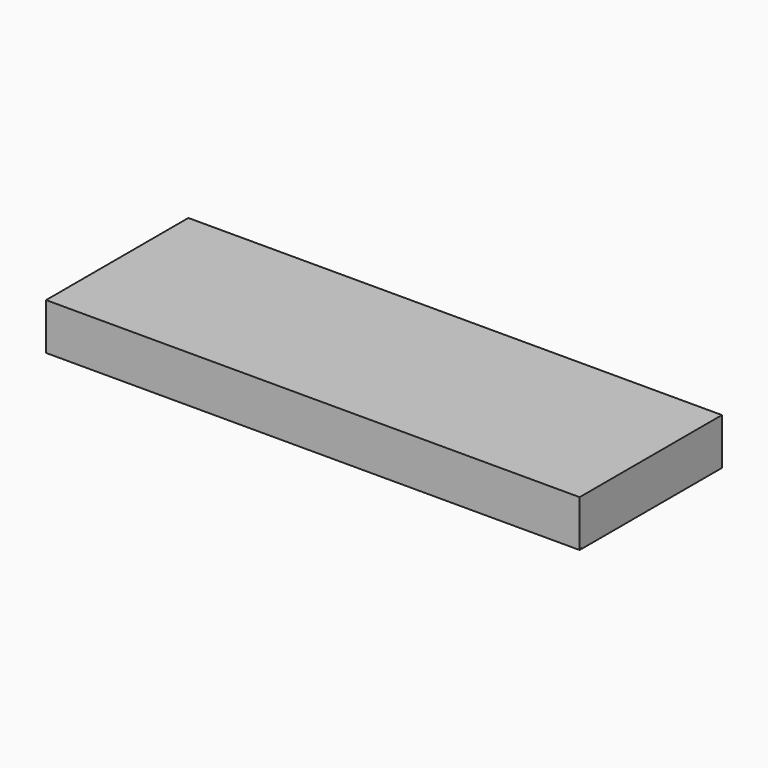
from build123d import *

# Parameters (mm, degrees)
F0_W     = 304.8
F0_H     = 101.6
F0_W_2   = 301.6
F0_H_2   = 98.4
F1_DEPTH = 25
F2_W     = 304.8
F2_H     = 101.6
F3_DEPTH = 1.6
F4_W     = 0.644748
F4_H     = 0.498444
F5_DEPTH = 303.2
F6_W     = 0.51682
F6_H     = 0.5
F7_DEPTH = 100.644748


with BuildPart() as f1:
    # F0 (on Top) → F1 (new body)
    with BuildSketch(Plane.XY):
        with Locations((4.001044, -97.389185)):
            Rectangle(F0_W, F0_H)
        with Locations((4.001044, -97.389185)):
            Rectangle(F0_W_2, F0_H_2, mode=Mode.SUBTRACT)
    extrude(amount=F1_DEPTH)

    # F2 (on face) → F3 (join)
    with BuildSketch(Plane.XY.offset(25)):
        with Locations((4.001044, -97.389185)):
            Rectangle(F2_W, F2_H)
    extrude(amount=F3_DEPTH)

    # F4 (on face) → F5 (cut, through all)
    with BuildSketch(Plane.YZ.offset(-146.798956)):
        with Locations((-146.911559, 0.249222)):
            Rectangle(F4_W, F4_H)
    extrude(amount=F5_DEPTH, mode=Mode.SUBTRACT)

    # F6 (on face) → F7 (cut, through all)
    with BuildSketch(Plane(origin=(0, -147.233933, 0), x_dir=(-1, 0, 0), z_dir=(0, 1, 0))):
        with Locations((147.057366, 0.25)):
            Rectangle(F6_W, F6_H)
    extrude(amount=F7_DEPTH, mode=Mode.SUBTRACT)


solid = f1.part
